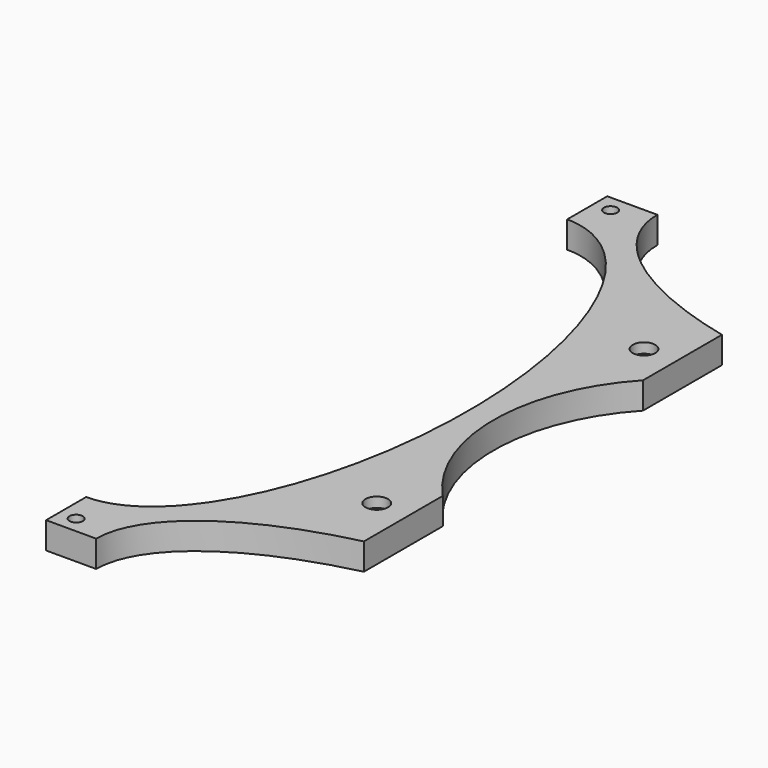
from build123d import *

# Parameters (mm, degrees)
F0_R           = 55
F1_DEPTH       = 8
F3_D           = 4
F4_D           = 3.75
F4_CBORE_D     = 6.75
F4_CBORE_DEPTH = 3
F5_W           = 80.514036
F5_H           = 245.416
F5_W_2         = 74.904691
F6_DEPTH       = 25


with BuildPart() as f1:
    # F0 (on Top) → F1 (new body)
    with BuildSketch(Plane.XY):
        with BuildLine():
            Line((105, 90), (105, 105))
            Line((105, 105), (90, 105))
            add(Edge.make_bspline(
                [(-90, 105), (-90, 62.5), (0, 62.5), (90, 62.5), (90, 105)],
                knots=[3.141593, 3.141593, 3.141593, 4.712389, 4.712389, 6.283185, 6.283185, 6.283185], degree=2, weights=[1, 0.707107, 1, 0.707107, 1]))
            Line((-90, 105), (-105, 105))
            Line((-105, 105), (-105, 90))
            add(Edge.make_bspline(
                [(-105, -90), (-62.5, -90), (-62.5, 0), (-62.5, 90), (-105, 90)],
                knots=[3.141593, 3.141593, 3.141593, 4.712389, 4.712389, 6.283185, 6.283185, 6.283185], degree=2, weights=[1, 0.707107, 1, 0.707107, 1]))
            Line((-105, -90), (-105, -105))
            Line((-105, -105), (-90, -105))
            add(Edge.make_bspline(
                [(90, -105), (90, -62.5), (0, -62.5), (-90, -62.5), (-90, -105)],
                knots=[0, 0, 0, 1.570796, 1.570796, 3.141593, 3.141593, 3.141593], degree=2, weights=[1, 0.707107, 1, 0.707107, 1]))
            Line((90, -105), (105, -105))
            Line((105, -105), (105, -90))
            add(Edge.make_bspline(
                [(105, 90), (62.5, 90), (62.5, 0), (62.5, -90), (105, -90)],
                knots=[0, 0, 0, 1.570796, 1.570796, 3.141593, 3.141593, 3.141593], degree=2, weights=[1, 0.707107, 1, 0.707107, 1]))
        make_face()
        Circle(F0_R, mode=Mode.SUBTRACT)
    extrude(amount=F1_DEPTH)

    # F3 (through all)
    with Locations(Plane.XY.offset(8)):
        with Locations((-100, 100), (100, 100), (100, -100), (-100, -100)):
            Hole(F3_D / 2)

    # F4 (through all)
    with Locations(Plane.XY.offset(8)):
        with Locations((-50, 50), (-50, -50), (50, -50), (50, 50)):
            CounterBoreHole(F4_D / 2, F4_CBORE_D / 2, F4_CBORE_DEPTH)

    # F5 (on Top) → F6 (cut)
    with BuildSketch(Plane.XY):
        Rectangle(F5_W, F5_H)
        with Locations((77.709363, 0)):
            Rectangle(F5_W_2, F5_H)
    extrude(amount=F6_DEPTH, mode=Mode.SUBTRACT)


solid = f1.part
